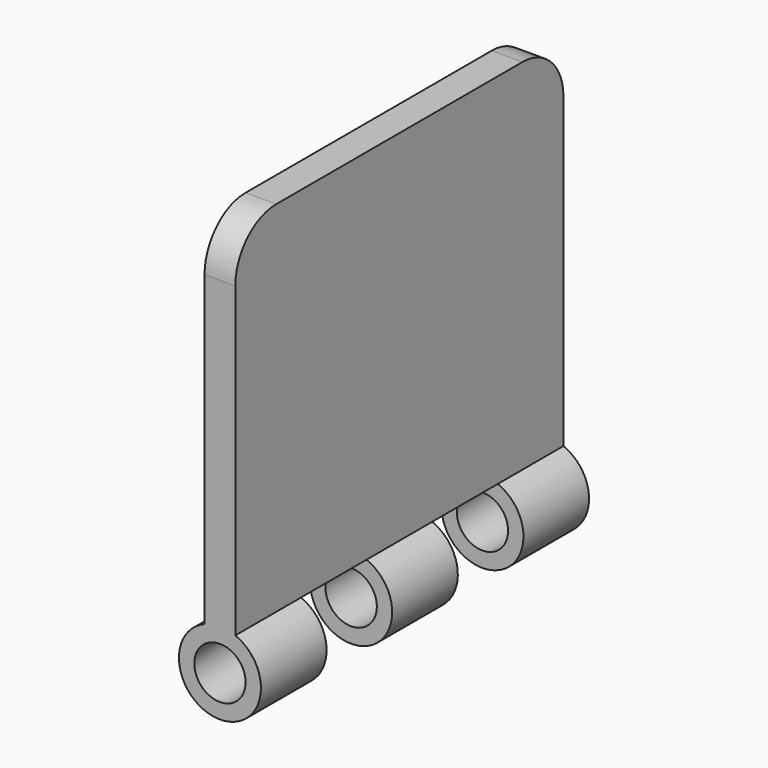
from build123d import *

# Parameters (mm, degrees)
F1_DEPTH = 101.6
F2_R     = 12.7
F3_R     = 6.35
F4_DEPTH = 101.601
F5_W     = 20.32
F5_H     = 24.3607418369
F5_H_2   = 23.7557509671
F6_DEPTH = 50.8


with BuildPart() as f1:
    # F0 (on Front) → F1 (new body)
    with BuildSketch(Plane.XZ):
        with BuildLine():
            Line((3.81, 51.1735859583), (-3.81, 51.1735859583))
            Line((-3.81, 51.1735859583), (-3.81, -37.7264140417))
            ThreePointArc((-3.81, -37.7264140417), (0, -57.3049861203), (3.81, -37.7264140417))
            Line((3.81, -37.7264140417), (3.81, 51.1735859583))
        make_face()
    extrude(amount=F1_DEPTH)

    # F2
    f2_edges = [f1.edges().sort_by_distance(p)[0] for p in [
        (0, -101.6, 51.173586),
        (0, 0, 51.173586),
    ]]
    fillet(f2_edges, radius=F2_R)

    # F3 (on face) → F4 (cut, through all)
    with BuildSketch(Plane(origin=(0, 0, 0), x_dir=(-1, 0, 0), z_dir=(0, 1, 0))):
        with Locations((0, -47.1449861203)):
            Circle(F3_R)
    extrude(amount=-F4_DEPTH, mode=Mode.SUBTRACT)

    # F5 (on face) → F6 (cut, symmetric)
    with BuildSketch(Plane.YZ.offset(3.81)):
        with Locations((-71.12, -49.9067849601)):
            Rectangle(F5_W, F5_H)
        with Locations((-30.48, -49.6042895252)):
            Rectangle(F5_W, F5_H_2)
    extrude(amount=F6_DEPTH, both=True, mode=Mode.SUBTRACT)


solid = f1.part
